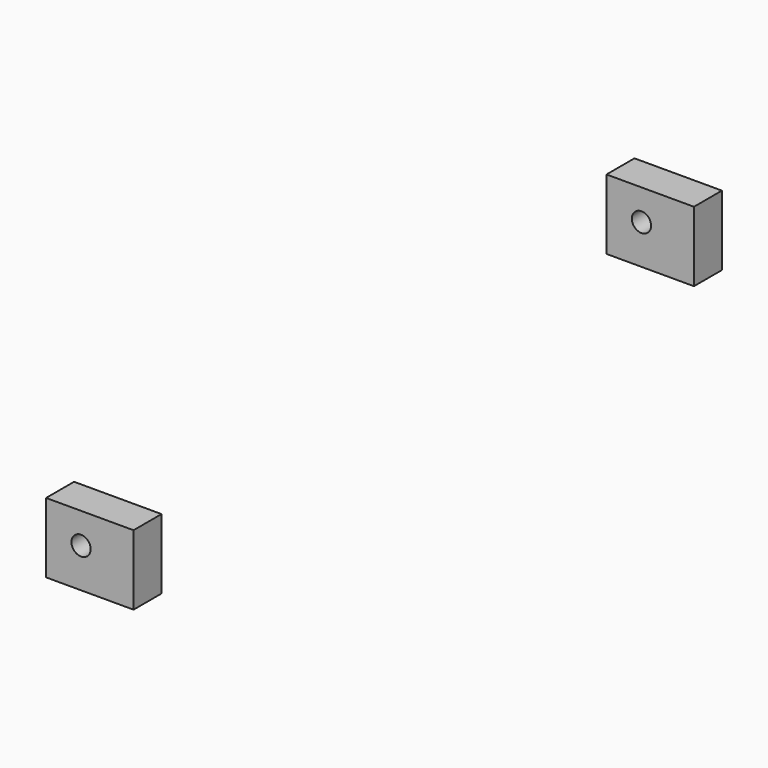
from build123d import *

# Parameters (mm, degrees)
CYLINDER_R     = 1.1
CYLINDER_DEPTH = 120
BOX004_W       = 10
BOX004_H       = 4
BOX004_DEPTH   = 8
ARRAY_Y_COUNT  = 2
ARRAY_Y_PITCH  = 80.1


with BuildPart() as cylinder:
    # Cylinder → Cylinder (new body)
    with BuildSketch(Plane(origin=(0, 50, 55.5), x_dir=(1, 0, 0), z_dir=(0, -1, 0))):
        Circle(CYLINDER_R)
    extrude(amount=CYLINDER_DEPTH)


with BuildPart() as cut001002:
    # Box004 → Box004 (new body)
    with BuildSketch(Plane(origin=(-4, -53, 51), x_dir=(1, 0, 0), z_dir=(0, 0, 1))):
        with Locations((5, 2)):
            Rectangle(BOX004_W, BOX004_H)
    extrude(amount=BOX004_DEPTH)

    # Array Y: Cut001002 ×2


with BuildPart() as cut001002_1:
    add(cut001002.part)
    with Locations(*[(0, i * ARRAY_Y_PITCH, 0) for i in range(1, ARRAY_Y_COUNT)]):
        add(cut001002.part)

    # Cut001002: cut Cylinder
    add(cylinder.part, mode=Mode.SUBTRACT)


solid = cut001002_1.part
